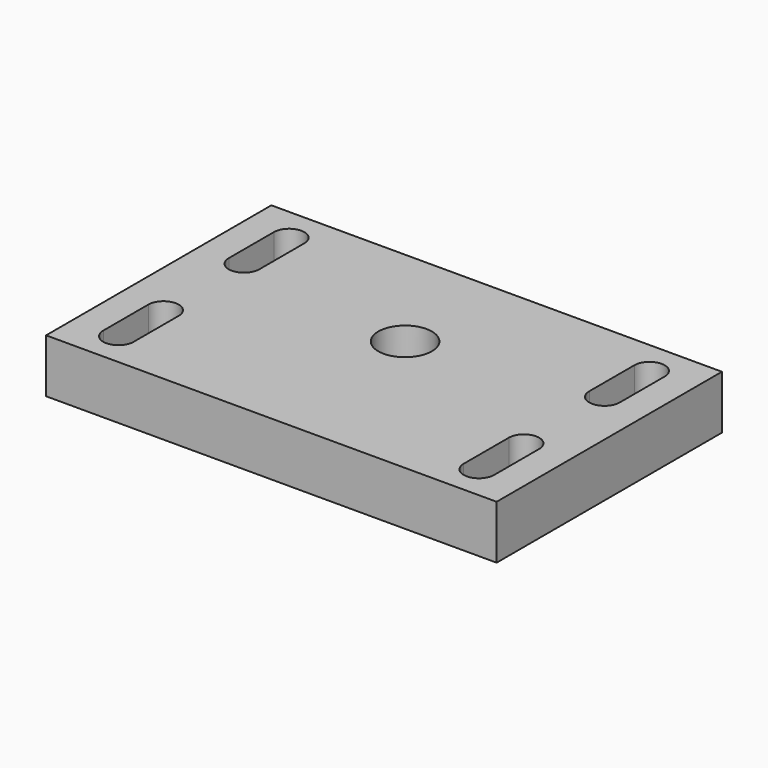
from build123d import *

# Parameters (mm, degrees)
F0_W     = 80
F0_H     = 50
F1_DEPTH = 9.525
F3_DEPTH = 25
F4_R     = 4.7625
F5_DEPTH = 9.526


with BuildPart() as f1:
    # F0 (on Top) → F1 (new body)
    with BuildSketch(Plane.XY):
        Rectangle(F0_W, F0_H)
    extrude(amount=F1_DEPTH)

    # F2 (on face) → F3 (cut)
    with BuildSketch(Plane.XY.offset(9.525)):
        with BuildLine():
            ThreePointArc((-29.3, 18.933095), (-32, 21.633095), (-34.7, 18.933095))
            Line((-34.7, 18.933095), (-34.7, 8.933095))
            ThreePointArc((-34.7, 8.933095), (-32, 6.233095), (-29.3, 8.933095))
            Line((-29.3, 8.933095), (-29.3, 18.933095))
        make_face()
        with BuildLine():
            ThreePointArc((-34.7, -18.933095), (-32, -21.633095), (-29.3, -18.933095))
            Line((-29.3, -18.933095), (-29.3, -8.933095))
            ThreePointArc((-29.3, -8.933095), (-32, -6.233095), (-34.7, -8.933095))
            Line((-34.7, -8.933095), (-34.7, -18.933095))
        make_face()
        with BuildLine():
            ThreePointArc((29.3, -18.933095), (32, -21.633095), (34.7, -18.933095))
            Line((34.7, -18.933095), (34.7, -8.933095))
            ThreePointArc((34.7, -8.933095), (32, -6.233095), (29.3, -8.933095))
            Line((29.3, -8.933095), (29.3, -18.933095))
        make_face()
        with BuildLine():
            ThreePointArc((34.7, 18.933095), (32, 21.633095), (29.3, 18.933095))
            Line((29.3, 18.933095), (29.3, 8.933095))
            ThreePointArc((29.3, 8.933095), (32, 6.233095), (34.7, 8.933095))
            Line((34.7, 8.933095), (34.7, 18.933095))
        make_face()
    extrude(amount=-F3_DEPTH, mode=Mode.SUBTRACT)

    # F4 (on face) → F5 (cut, through all)
    with BuildSketch(Plane.XY.offset(9.525)):
        with Locations((0, 4.68)):
            Circle(F4_R)
    extrude(amount=-F5_DEPTH, mode=Mode.SUBTRACT)


solid = f1.part
